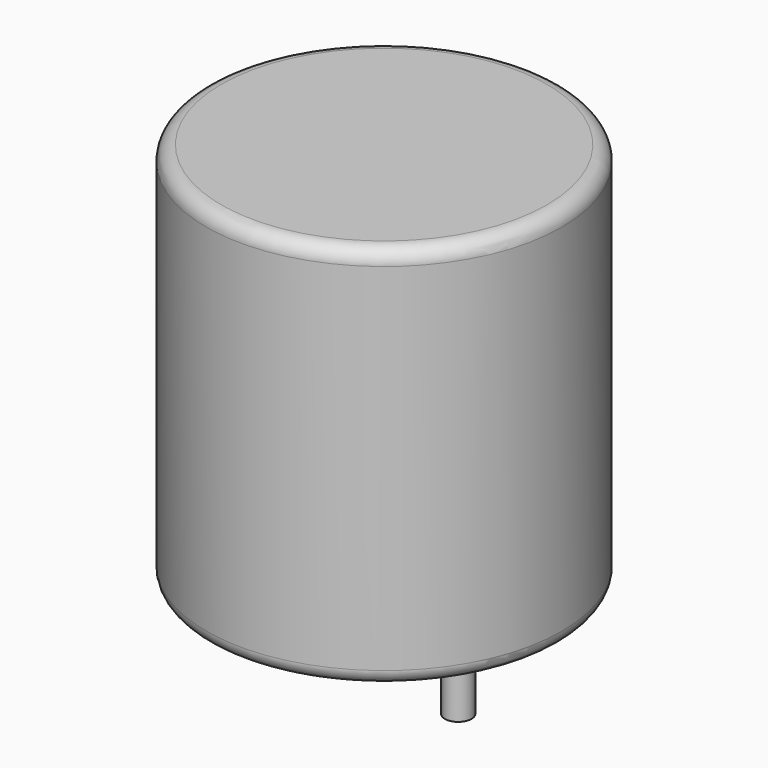
from build123d import *

# Parameters (mm, degrees)
SKETCH001_R       = 0.45
PAD001_DEPTH      = 6.5
PAD001_DEPTH_BACK = 3.5
SKETCH_R          = 6
PAD_DEPTH         = 13
FILLET_R          = 0.5


with BuildPart() as pad001:
    # Sketch001 → Pad001 (new body, two sides)
    with BuildSketch(Plane.XY.offset(0.5)) as pad001_sk:
        Circle(SKETCH001_R)
        with Locations((5, 0)):
            Circle(SKETCH001_R)
    extrude(amount=PAD001_DEPTH)
    extrude(pad001_sk.sketch, amount=-PAD001_DEPTH_BACK)


with BuildPart() as obj1:
    # Sketch → Pad (new body)
    with BuildSketch(Plane.XY.offset(0.1)):
        with Locations((2.5, 0)):
            Circle(SKETCH_R)
    extrude(amount=PAD_DEPTH)

    # Fillet
    fillet_edges = [obj1.edges().sort_by_distance(p)[0] for p in [
        (-3.5, 0, 0.1),
        (-3.5, 0, 13.1),
    ]]
    fillet(fillet_edges, radius=FILLET_R)

    # obj1: union Pad001
    add(pad001.part)


solid = obj1.part
